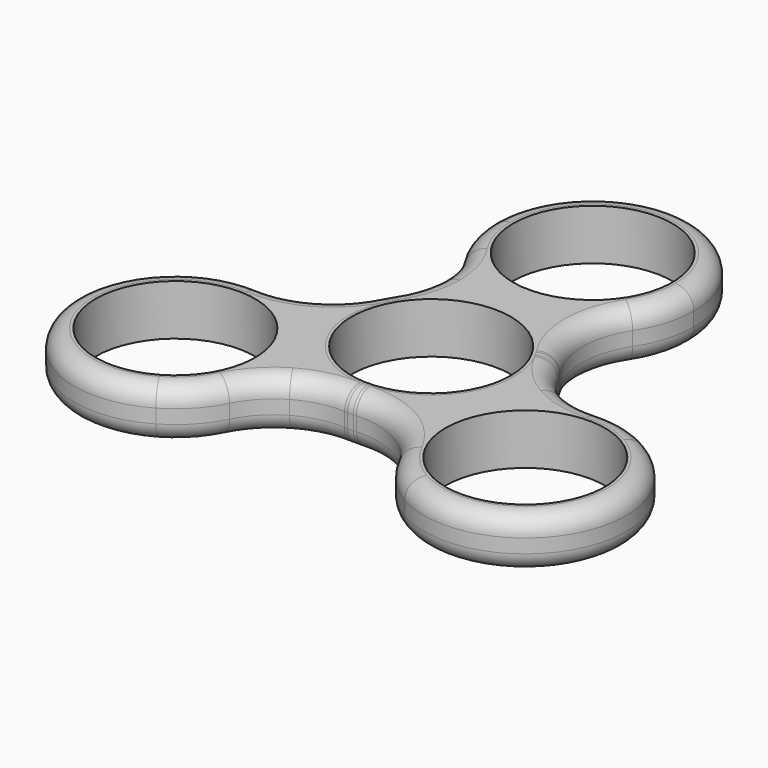
from build123d import *

# Parameters (mm, degrees)
F1_DEPTH = 7.0104
F3_COUNT = 3
F4_R     = 2.54
F4_2_R   = 2.54
F4_3_R   = 2.54


with BuildPart() as f1:
    # F0 (on Top) → F1 (new body)
    with BuildSketch(Plane.XY):
        with BuildLine():
            ThreePointArc((-11.6672502142, 20.2564999878), (-6.6265528304, 15.6416384187), (0, 13.97))
            ThreePointArc((0, 13.97), (6.6265529279, 15.6416384712), (11.667250336, 20.2565001727))
            ThreePointArc((11.667250336, 20.2565001727), (13.3819353457, 23.9294256767), (13.97, 27.94))
            Line((13.97, 27.94), (11.0236, 27.94))
            ThreePointArc((11.0236, 27.94), (0, 16.9164), (-11.0236, 27.94))
            Line((-11.0236, 27.94), (-13.97, 27.94))
            ThreePointArc((-13.97, 27.94), (-13.3819353139, 23.9294255706), (-11.6672502142, 20.2564999878))
        make_face()
        with BuildLine():
            Line((11.0236, 27.94), (13.97, 27.94))
            ThreePointArc((13.97, 27.94), (0, 41.91), (-13.97, 27.94))
            Line((-13.97, 27.94), (-11.0236, 27.94))
            ThreePointArc((-11.0236, 27.94), (0, 38.9636), (11.0236, 27.94))
        make_face()
        with BuildLine():
            ThreePointArc((0, 13.97), (6.6265528792, 12.2983615551), (11.6672502751, 7.6834999198))
            ThreePointArc((11.6672502751, 7.6834999198), (9.7831822224, 13.9700000554), (11.667250336, 20.2565001727))
            ThreePointArc((11.667250336, 20.2565001727), (6.6265529279, 15.6416384712), (0, 13.97))
        make_face()
        with BuildLine():
            ThreePointArc((-9.7831822224, 13.97), (-10.2643260451, 10.6886209592), (-11.6672501855, 7.6835000559))
            ThreePointArc((-11.6672501855, 7.6835000559), (-6.6265528074, 12.2983615937), (0, 13.97))
            ThreePointArc((0, 13.97), (-6.6265528304, 15.6416384187), (-11.6672502142, 20.2564999878))
            ThreePointArc((-11.6672502142, 20.2564999878), (-10.2643260526, 17.2513790658), (-9.7831822224, 13.97))
        make_face()
        with BuildLine():
            Line((13.97, 0), (11.0236, 0))
            ThreePointArc((11.0236, 0), (0, -11.0236), (-11.0236, 0))
            Line((-11.0236, 0), (-13.97, 0))
            ThreePointArc((-13.97, 0), (0, -13.97), (13.97, 0))
        make_face()
        with BuildLine():
            ThreePointArc((-11.0236, 0), (0, 11.0236), (11.0236, 0))
            Line((11.0236, 0), (13.97, 0))
            ThreePointArc((13.97, 0), (13.3819353298, 4.0105743763), (11.6672502751, 7.6834999198))
            ThreePointArc((11.6672502751, 7.6834999198), (6.6265528792, 12.2983615551), (0, 13.97))
            ThreePointArc((0, 13.97), (-6.6265528074, 12.2983615937), (-11.6672501855, 7.6835000559))
            ThreePointArc((-11.6672501855, 7.6835000559), (-13.3819353064, 4.0105744544), (-13.97, 0))
            Line((-13.97, 0), (-11.0236, 0))
        make_face()
    extrude(amount=F1_DEPTH)


with BuildPart() as f3_1:
    # F3: instance of F1
    add(f1.part.rotate(Axis((0, 0, 0), (0, 0, 1)), 1 * 360 / F3_COUNT))

    # F4
    f4_edges = [f3_1.edges().sort_by_distance(p)[0] for p in [
        (-36.295125, -20.955, 7.0104),
        (-36.295125, -20.955, 0),
    ]]
    fillet(f4_edges, radius=F4_R)


with BuildPart() as f3_2:
    # F3: instance of F1
    add(f1.part.rotate(Axis((0, 0, 0), (0, 0, 1)), 2 * 360 / F3_COUNT))

    # F4#2
    f4_2_edges = [f3_2.edges().sort_by_distance(p)[0] for p in [
        (36.295125, -20.955, 7.0104),
        (36.295125, -20.955, 0),
    ]]
    fillet(f4_2_edges, radius=F4_2_R)


with BuildPart() as f1_1:
    add(f1.part)

    # F4#3
    f4_3_edges = [f1_1.edges().sort_by_distance(p)[0] for p in [
        (0, 41.91, 7.0104),
        (0, 41.91, 0),
    ]]
    fillet(f4_3_edges, radius=F4_3_R)


solid = Compound([f3_1.part, f3_2.part, f1_1.part])
